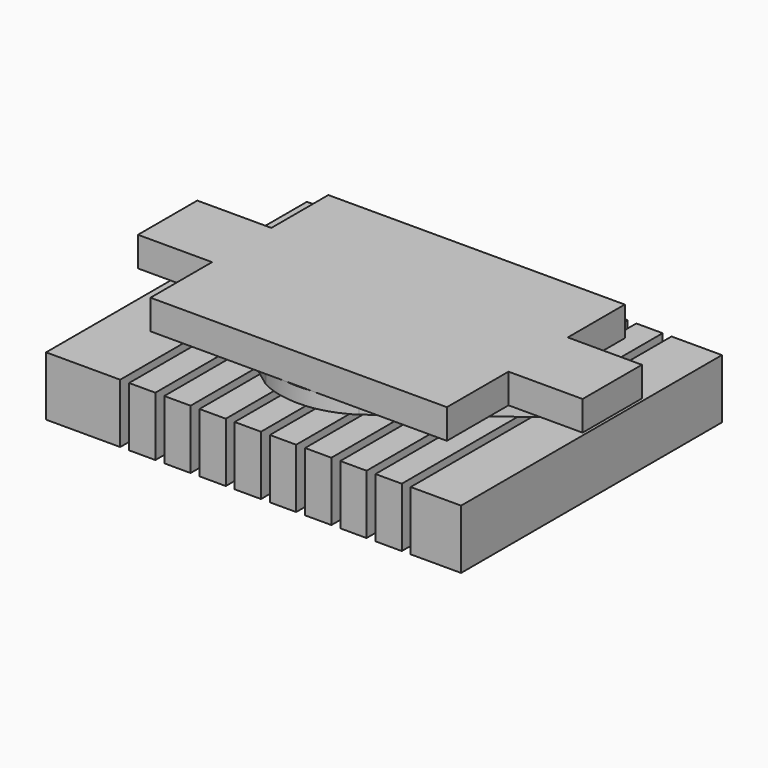
from build123d import *

# Parameters (mm, degrees)
SKETCH_W             = 28
SKETCH_H             = 22
PAD002_DEPTH         = 5
POCKET001_DEPTH      = 0.8
SKETCH002_W          = 0.6
SKETCH002_H          = 23
POCKET_DEPTH         = 4
LINEARPATTERN_COUNT  = 9
LINEARPATTERN_PITCH  = 2.375
POCKET002_DEPTH      = 3.5
SKETCH006_W          = 28
SKETCH006_H          = 22
POCKET005_DEPTH      = 1
POCKET005_DEPTH_BACK = 1
PAD_DEPTH            = 2


with BuildPart() as part:
    # Sketch → Pad002 (new body)
    with BuildSketch(Plane.XY):
        with Locations((15, 12)):
            Rectangle(SKETCH_W, SKETCH_H)
    extrude(amount=PAD002_DEPTH)

    # Sketch001 → Pocket001 (cut)
    with BuildSketch(Plane.XY):
        with BuildLine():
            ThreePointArc((17.966363, 19.215428), (14.961232, 19.999875), (11.966488, 19.17666))
            Line((11.966488, 19.17666), (4.036475, 13.531422))
            ThreePointArc((4.036475, 13.531422), (3.750333, 12.536475), (4, 11.531754))
            Line((4, 11.531754), (12.33, 5.376817))
            ThreePointArc((12.33, 5.376817), (15.374304, 4.761687), (18.318313, 5.75112))
            Line((18.318313, 5.75112), (26, 11.531754))
            ThreePointArc((26, 11.531754), (26.249667, 12.536475), (25.963525, 13.531422))
            Line((25.963525, 13.531422), (17.966363, 19.215428))
        make_face()
    extrude(amount=POCKET001_DEPTH, mode=Mode.SUBTRACT)

    # Sketch002 → Pocket (cut)
    with BuildSketch(Plane.XY):
        with Locations((6.3, 11.5)):
            Rectangle(SKETCH002_W, SKETCH002_H)
    pocket = extrude(amount=POCKET_DEPTH, mode=Mode.SUBTRACT)

    # LinearPattern: Pocket ×9
    with Locations(*[(i * LINEARPATTERN_PITCH, 0, 0) for i in range(1, LINEARPATTERN_COUNT)]):
        add(pocket, mode=Mode.SUBTRACT)

    # Sketch003 → Pocket002 (cut)
    with BuildSketch(Plane(origin=(0.5, 0, 4), x_dir=(0.707107, 0, -0.707107), z_dir=(0.707107, 0, 0.707107))):
        with BuildLine():
            ThreePointArc((17.966363, 19.215428), (14.961232, 19.999875), (11.966488, 19.17666))
            Line((11.966488, 19.17666), (4.036475, 13.531422))
            ThreePointArc((4.036475, 13.531422), (3.750333, 12.536475), (4, 11.531754))
            Line((4, 11.531754), (12.33, 5.376817))
            ThreePointArc((12.33, 5.376817), (15.374304, 4.761687), (18.318313, 5.75112))
            Line((18.318313, 5.75112), (26, 11.531754))
            ThreePointArc((26, 11.531754), (26.249667, 12.536475), (25.963525, 13.531422))
            Line((25.963525, 13.531422), (17.966363, 19.215428))
        make_face()
    extrude(amount=POCKET002_DEPTH, mode=Mode.SUBTRACT)

    # Sketch006 → Pocket005 (cut, two sides)
    with BuildSketch(Plane.XY.offset(5)) as pocket005_sk:
        with Locations((15, 12)):
            Rectangle(SKETCH006_W, SKETCH006_H)
        with BuildLine():
            ThreePointArc((17.966363, 19.215428), (14.961232, 19.999875), (11.966488, 19.17666))
            Line((11.966488, 19.17666), (4.036475, 13.531422))
            ThreePointArc((4.036475, 13.531422), (3.750333, 12.536475), (4, 11.531754))
            Line((4, 11.531754), (12.33, 5.376817))
            ThreePointArc((12.33, 5.376817), (15.374304, 4.761687), (18.318313, 5.75112))
            Line((18.318313, 5.75112), (26, 11.531754))
            ThreePointArc((26, 11.531754), (26.249667, 12.536475), (25.963525, 13.531422))
            Line((25.963525, 13.531422), (17.966363, 19.215428))
        make_face(mode=Mode.SUBTRACT)
    extrude(amount=-POCKET005_DEPTH, mode=Mode.SUBTRACT)
    extrude(pocket005_sk.sketch, amount=POCKET005_DEPTH_BACK, mode=Mode.SUBTRACT)

    # Sketch004 → Pad (join)
    with BuildSketch(Plane.XY.offset(5)):
        Polygon((5, 19.805), (25, 19.805), (25, 15), (30, 15), (30, 10), (25, 10), (25, 4.805), (5, 4.805), (5, 10), (0, 10), (0, 15), (5, 15), align=None)
    extrude(amount=PAD_DEPTH)


solid = part.part
